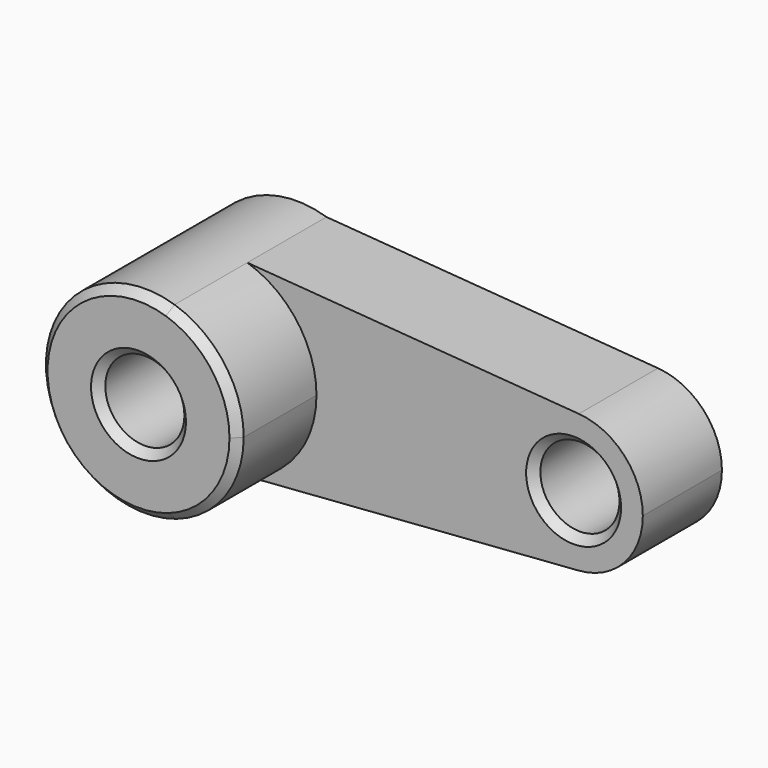
from build123d import *

# Parameters (mm, degrees)
F0_R     = 10
F1_DEPTH = 25
F2_DEPTH = 50
F3_SIZE  = 2


with BuildPart() as f1:
    # F0 (on Front) → F1 (new body)
    with BuildSketch(Plane.XZ):
        with BuildLine():
            ThreePointArc((7.989306, -23.689048), (20.306805, -14.581964), (25, 0))
            ThreePointArc((25, 0), (20.160232, 14.783946), (7.514795, 23.843822))
            ThreePointArc((7.514795, 23.843822), (-24.998754, -0.249557), (7.989306, -23.689048))
        make_face()
        Circle(F0_R, mode=Mode.SUBTRACT)
        with BuildLine():
            ThreePointArc((7.989306, -23.689048), (20.306805, -14.581964), (25, 0))
            ThreePointArc((25, 0), (20.160232, 14.783946), (7.514795, 23.843822))
            ThreePointArc((7.514795, 23.843822), (-24.998754, -0.249557), (7.989306, -23.689048))
        make_face()
        Circle(F0_R, mode=Mode.SUBTRACT)
        with BuildLine():
            ThreePointArc((7.514795, 23.843822), (20.160232, 14.783946), (25, 0))
            ThreePointArc((25, 0), (20.306805, -14.581964), (7.989306, -23.689048))
            Line((7.989306, -23.689048), (91.306553, -17.451158))
            ThreePointArc((91.306553, -17.451158), (72.500004, 0.01238), (91.331243, 17.449292))
            Line((91.331243, 17.449292), (7.514795, 23.843822))
        make_face()
        with BuildLine():
            ThreePointArc((107.5, 0), (102.836408, 11.894395), (91.331243, 17.449292))
            ThreePointArc((91.331243, 17.449292), (72.500004, 0.01238), (91.306553, -17.451158))
            ThreePointArc((91.306553, -17.451158), (102.82799, -11.903473), (107.5, 0))
        make_face()
        with Locations((90, 0)):
            Circle(F0_R, mode=Mode.SUBTRACT)
        with BuildLine():
            ThreePointArc((107.5, 0), (102.836408, 11.894395), (91.331243, 17.449292))
            ThreePointArc((91.331243, 17.449292), (72.500004, 0.01238), (91.306553, -17.451158))
            ThreePointArc((91.306553, -17.451158), (102.82799, -11.903473), (107.5, 0))
        make_face()
        with Locations((90, 0)):
            Circle(F0_R, mode=Mode.SUBTRACT)
        with BuildLine():
            ThreePointArc((7.514795, 23.843822), (20.160232, 14.783946), (25, 0))
            ThreePointArc((25, 0), (20.306805, -14.581964), (7.989306, -23.689048))
            Line((7.989306, -23.689048), (91.306553, -17.451158))
            ThreePointArc((91.306553, -17.451158), (72.500004, 0.01238), (91.331243, 17.449292))
            Line((91.331243, 17.449292), (7.514795, 23.843822))
        make_face()
    extrude(amount=F1_DEPTH)

    # F0 (on Front) → F2 (join)
    with BuildSketch(Plane.XZ):
        with BuildLine():
            ThreePointArc((7.989306, -23.689048), (20.306805, -14.581964), (25, 0))
            ThreePointArc((25, 0), (20.160232, 14.783946), (7.514795, 23.843822))
            ThreePointArc((7.514795, 23.843822), (-24.998754, -0.249557), (7.989306, -23.689048))
        make_face()
        Circle(F0_R, mode=Mode.SUBTRACT)
    extrude(amount=F2_DEPTH)

    # F3
    f3_edges = [f1.edges().sort_by_distance(p)[0] for p in [
        (-7.989306, -50, 23.689048),
        (-10, -50, 0),
        (80, -25, 0),
    ]]
    chamfer(f3_edges, length=F3_SIZE)


solid = f1.part
